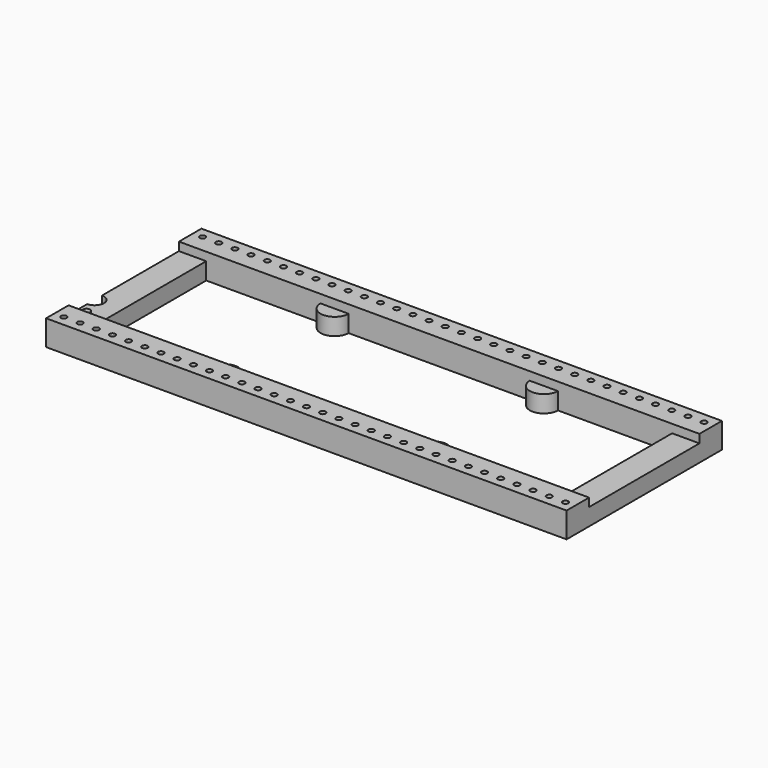
from build123d import *

# Parameters (mm, degrees)
BOX_W                                = 57.2
BOX_H                                = 21.34
BOX_DEPTH                            = 2.79
BOX001_W                             = 51.2
BOX001_H                             = 15.16
BOX001_DEPTH                         = 10
BOX002_W                             = 4
BOX002_H                             = 15.16
BOX002_DEPTH                         = 0.92
BOX003_W                             = 4
BOX003_H                             = 15.16
BOX003_DEPTH                         = 0.92
CYLINDER_W                           = 1.025
CYLINDER_H                           = 5
CYLINDER_ANGLE                       = 180
CYLINDER001_R                        = 0.4
CYLINDER001_DEPTH                    = 0.25
CYLINDER002_R                        = 0.3105
CYLINDER002_DEPTH                    = 10
LINEARPATTERN_COUNT                  = 32
LINEARPATTERN_PITCH                  = 1.778065
CYLINDER003_R                        = 0.3105
CYLINDER003_DEPTH                    = 10
LINEARPATTERN001_COUNT               = 32
LINEARPATTERN001_PITCH               = 1.778065
CYLINDER008_W                        = 1.55
CYLINDER008_H                        = 1.87
CYLINDER008_ANGLE                    = 180
CYLINDER008_LINEARPATTERN002_2_W     = 1.55
CYLINDER008_LINEARPATTERN002_2_H     = 1.87
CYLINDER008_LINEARPATTERN002_2_ANGLE = 180


with BuildPart() as part:
    # Box → Box (join)
    with BuildSketch(Plane(origin=(-28.6, -10.67, 2.8), x_dir=(1, 0, 0), z_dir=(0, 0, 1))):
        with Locations((28.6, 10.67)):
            Rectangle(BOX_W, BOX_H)
    extrude(amount=BOX_DEPTH)

    # Box001 → Box001 (cut)
    with BuildSketch(Plane(origin=(-25.6, -7.58, 0), x_dir=(1, 0, 0), z_dir=(0, 0, 1))):
        with Locations((25.6, 7.58)):
            Rectangle(BOX001_W, BOX001_H)
    extrude(amount=BOX001_DEPTH, mode=Mode.SUBTRACT)

    # Box002 → Box002 (cut)
    with BuildSketch(Plane(origin=(-29.16, -7.58, 4.67), x_dir=(1, 0, 0), z_dir=(0, 0, 1))):
        with Locations((2, 7.58)):
            Rectangle(BOX002_W, BOX002_H)
    extrude(amount=BOX002_DEPTH, mode=Mode.SUBTRACT)

    # Box003 → Box003 (cut)
    with BuildSketch(Plane(origin=(25, -7.58, 4.67), x_dir=(1, 0, 0), z_dir=(0, 0, 1))):
        with Locations((2, 7.58)):
            Rectangle(BOX003_W, BOX003_H)
    extrude(amount=BOX003_DEPTH, mode=Mode.SUBTRACT)

    # Cylinder → Cylinder (revolve, cut)
    with BuildSketch(Plane(origin=(-28.6, -4, 0), x_dir=(0, -1, 0), z_dir=(-1, 0, 0))):
        with Locations((0.5125, 2.5)):
            Rectangle(CYLINDER_W, CYLINDER_H)
    revolve(axis=Axis((-28.6, -4, 0), (0, 0, 1)), revolution_arc=CYLINDER_ANGLE, mode=Mode.SUBTRACT)

    # Cylinder001 → Cylinder001 (join)
    with BuildSketch(Plane(origin=(-27.559, -6.425, 4.67), x_dir=(1, 0, 0), z_dir=(0, 0, 1))):
        Circle(CYLINDER001_R)
    extrude(amount=CYLINDER001_DEPTH)

    # Cylinder002 → Cylinder002 (cut)
    with BuildSketch(Plane(origin=(-27.559, -9.525, 0), x_dir=(1, 0, 0), z_dir=(0, 0, 1))):
        Circle(CYLINDER002_R)
    cylinder002 = extrude(amount=CYLINDER002_DEPTH, mode=Mode.SUBTRACT)

    # LinearPattern: Cylinder002 ×32
    with Locations(*[(i * LINEARPATTERN_PITCH, 0, 0) for i in range(1, LINEARPATTERN_COUNT)]):
        add(cylinder002, mode=Mode.SUBTRACT)

    # Cylinder003 → Cylinder003 (cut)
    with BuildSketch(Plane(origin=(-27.559, 9.525, 0), x_dir=(1, 0, 0), z_dir=(0, 0, 1))):
        Circle(CYLINDER003_R)
    cylinder003 = extrude(amount=CYLINDER003_DEPTH, mode=Mode.SUBTRACT)

    # LinearPattern001: Cylinder003 ×32
    with Locations(*[(i * LINEARPATTERN001_PITCH, 0, 0) for i in range(1, LINEARPATTERN001_COUNT)]):
        add(cylinder003, mode=Mode.SUBTRACT)

    # Cylinder008 → Cylinder008 (revolve)
    with BuildSketch(Plane(origin=(-11.5, 7.6, 2.8), x_dir=(-1, 0, 0), z_dir=(0, 1, 0))):
        with Locations((0.775, 0.935)):
            Rectangle(CYLINDER008_W, CYLINDER008_H)
    cylinder008 = revolve(axis=Axis((-11.5, 7.6, 2.8), (0, 0, 1)), revolution_arc=CYLINDER008_ANGLE)

    # Cylinder008 LinearPattern002 2 → Cylinder008 LinearPattern002 2 (revolve)
    with BuildSketch(Plane(origin=(11.5, 7.6, 2.8), x_dir=(-1, 0, 0), z_dir=(0, 1, 0))):
        with Locations((0.775, 0.935)):
            Rectangle(CYLINDER008_LINEARPATTERN002_2_W, CYLINDER008_LINEARPATTERN002_2_H)
    cylinder008_linearpattern002_2 = revolve(axis=Axis((11.5, 7.6, 2.8), (0, 0, 1)), revolution_arc=CYLINDER008_LINEARPATTERN002_2_ANGLE)

    # Mirrored: Cylinder008, Cylinder008 LinearPattern002 2 across XZ
    add(cylinder008.mirror(Plane.XZ))
    add(cylinder008_linearpattern002_2.mirror(Plane.XZ))


solid = part.part
